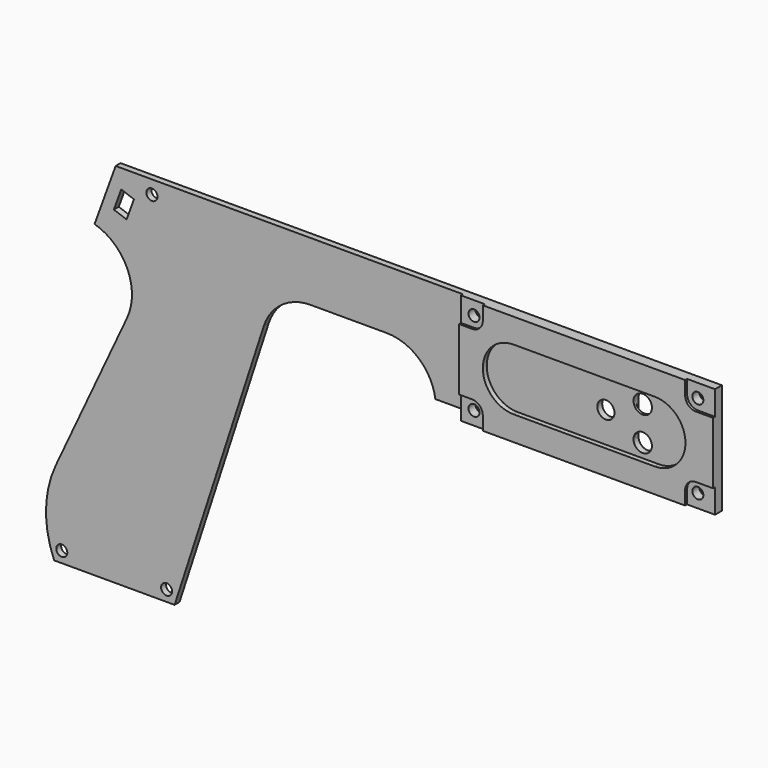
from build123d import *

# Parameters (mm, degrees)
SKETCH085_R           = 1.8
EXTRUDE085_DEPTH      = 0.8
SKETCH083_W           = 82.8
SKETCH083_H           = 36
SKETCH083_R           = 1.8
EXTRUDE083_DEPTH      = 1.6
SKETCH080_R           = 2.25
EXTRUDE081_DEPTH      = 0.6
EXTRUDE081_DEPTH_BACK = 2.4
SKETCH081_R           = 3.4
EXTRUDE080_DEPTH      = 2.4
EXTRUDE079_DEPTH      = 1.2
SKETCH075_R           = 1.8
SKETCH075_R_2         = 2.8
SKETCH075_R_3         = 3
EXTRUDE078_DEPTH      = 2


with BuildPart() as extrude085:
    # Sketch085 → Extrude085 (new body)
    with BuildSketch(Plane.XZ):
        with BuildLine():
            ThreePointArc((-78.51, 31.3), (-76.035126, 32.325126), (-75.01, 34.8))
            Line((-75.01, 34.8), (-75.01, 39.2))
            Line((-82.8, 39.2), (-75.01, 39.2))
            Line((-82.8, 31.3), (-82.8, 39.2))
            Line((-82.8, 31.3), (-78.51, 31.3))
        make_face()
        with Locations((-78.51, 34.8)):
            Circle(SKETCH085_R, mode=Mode.SUBTRACT)
        with BuildLine():
            ThreePointArc((-9.1, 34.8), (-8.074874, 32.325126), (-5.6, 31.3))
            Line((-5.6, 31.3), (0, 31.3))
            Line((0, 39.2), (0, 31.3))
            Line((-9.1, 39.2), (0, 39.2))
            Line((-9.1, 39.2), (-9.1, 34.8))
        make_face()
        with Locations((-5.6, 34.8)):
            Circle(SKETCH085_R, mode=Mode.SUBTRACT)
        with BuildLine():
            ThreePointArc((-75.01, 7.6), (-76.035126, 10.074874), (-78.51, 11.1))
            Line((-82.8, 11.1), (-78.51, 11.1))
            Line((-82.8, 3.2), (-82.8, 11.1))
            Line((-75.01, 3.2), (-82.8, 3.2))
            Line((-75.01, 7.6), (-75.01, 3.2))
        make_face()
        with Locations((-78.51, 7.6)):
            Circle(SKETCH085_R, mode=Mode.SUBTRACT)
        with BuildLine():
            ThreePointArc((-5.6, 11.1), (-8.074874, 10.074874), (-9.1, 7.6))
            Line((-9.1, 7.6), (-9.1, 3.2))
            Line((-9.1, 3.2), (0, 3.2))
            Line((0, 3.2), (0, 11.1))
            Line((-5.6, 11.1), (0, 11.1))
        make_face()
        with Locations((-5.6, 7.6)):
            Circle(SKETCH085_R, mode=Mode.SUBTRACT)
    extrude(amount=EXTRUDE085_DEPTH)


with BuildPart() as extrude085_1:
    # Extrude085 placement: moved
    add(extrude085.part.moved(Location((0, -2.8, 0))))


with BuildPart() as cut048:
    # Sketch083 → Extrude083 (new body)
    with BuildSketch(Plane.XZ):
        with Locations((-41.4, 21.2)):
            Rectangle(SKETCH083_W, SKETCH083_H)
        with Locations((-78.51, 34.8)):
            Circle(SKETCH083_R, mode=Mode.SUBTRACT)
        with Locations((-5.6, 34.8)):
            Circle(SKETCH083_R, mode=Mode.SUBTRACT)
        with Locations((-5.6, 7.6)):
            Circle(SKETCH083_R, mode=Mode.SUBTRACT)
        with Locations((-78.51, 7.6)):
            Circle(SKETCH083_R, mode=Mode.SUBTRACT)
        with BuildLine():
            ThreePointArc((-65, 31.2), (-75, 21.2), (-65, 11.2))
            Line((-65, 11.2), (-19, 11.2))
            ThreePointArc((-19, 11.2), (-9, 21.2), (-19, 31.2))
            Line((-65, 31.2), (-19, 31.2))
        make_face(mode=Mode.SUBTRACT)
    extrude(amount=EXTRUDE083_DEPTH)


with BuildPart() as cut048_1:
    # Extrude083 placement: moved
    add(cut048.part.moved(Location((0, -2, 0))))

    # Cut048: cut Extrude085
    add(extrude085_1.part, mode=Mode.SUBTRACT)


with BuildPart() as extrude081:
    # Sketch080 → Extrude081 (new body, two sides)
    with BuildSketch(Plane.XZ) as extrude081_sk:
        with Locations((-18.6, 12.1)):
            Circle(SKETCH080_R)
        with Locations((-18.6, 30.3)):
            Circle(SKETCH080_R)
        with Locations((-43.2, 30.3)):
            Circle(SKETCH080_R)
        with Locations((-43.2, 12.1)):
            Circle(SKETCH080_R)
    extrude(amount=EXTRUDE081_DEPTH)
    extrude(extrude081_sk.sketch, amount=-EXTRUDE081_DEPTH_BACK)


with BuildPart() as extrude080:
    # Sketch081 → Extrude080 (new body)
    with BuildSketch(Plane.XZ):
        with Locations((-43.2, 30.3)):
            Circle(SKETCH081_R)
        with Locations((-18.6, 30.3)):
            Circle(SKETCH081_R)
        with Locations((-43.2, 12.1)):
            Circle(SKETCH081_R)
        with Locations((-18.6, 12.1)):
            Circle(SKETCH081_R)
    extrude(amount=-EXTRUDE080_DEPTH)


with BuildPart() as obj1:
    # Sketch077 → Extrude079 (new body)
    with BuildSketch(Plane.XZ):
        with BuildLine():
            Line((-27.2, 26.7), (-27.2, 15.7))
            ThreePointArc((-27.2, 15.7), (-24.2, 12.7), (-21.2, 15.7))
            Line((-21.2, 26.700018), (-21.2, 15.7))
            ThreePointArc((-21.2, 26.700018), (-24.200009, 29.7), (-27.2, 26.7))
        make_face()
    extrude(amount=EXTRUDE079_DEPTH)


with BuildPart() as fusion006:
    # Sketch075 → Extrude078 (new body)
    with BuildSketch(Plane.XZ):
        with BuildLine():
            Line((-82.8, 3.2), (0, 3.2))
            Line((0, 3.2), (0, 39.2))
            Line((-195.886839, 39.2), (0, 39.2))
            Line((-202.764796, 20.302968), (-195.886839, 39.2))
            ThreePointArc((-192.175575, -3.18451), (-192.085048, 10.987093), (-202.764796, 20.302968))
            Line((-192.175575, -3.18451), (-215.419579, -53.031439))
            ThreePointArc((-215.419579, -53.031439), (-218.578907, -66.677212), (-215.93199, -80.431568))
            Line((-215.93199, -80.431568), (-176.68528, -80.431568))
            Line((-147.645309, 8.944272), (-176.68528, -80.431568))
            ThreePointArc((-132.428405, 20), (-141.832969, 16.944272), (-147.645309, 8.944272))
            Line((-132.428405, 20), (-107.6, 20))
            ThreePointArc((-91.751972, 6.2), (-97.09286, 16.066483), (-107.6, 20))
            Line((-82.8, 6.2), (-91.751972, 6.2))
            Line((-82.8, 3.2), (-82.8, 6.2))
        make_face()
        with Locations((-213.443268, -76.831568)):
            Circle(SKETCH075_R, mode=Mode.SUBTRACT)
        with Locations((-179.304663, -76.831568)):
            Circle(SKETCH075_R, mode=Mode.SUBTRACT)
        with Locations((-184.079668, 34.8)):
            Circle(SKETCH075_R, mode=Mode.SUBTRACT)
        with Locations((-78.51, 34.8)):
            Circle(SKETCH075_R, mode=Mode.SUBTRACT)
        with Locations((-78.51, 7.6)):
            Circle(SKETCH075_R, mode=Mode.SUBTRACT)
        with Locations((-5.6, 34.8)):
            Circle(SKETCH075_R, mode=Mode.SUBTRACT)
        with Locations((-5.6, 7.6)):
            Circle(SKETCH075_R, mode=Mode.SUBTRACT)
        with Locations((-36.2, 21.2)):
            Circle(SKETCH075_R_2, mode=Mode.SUBTRACT)
        with Locations((-24.2, 26.7)):
            Circle(SKETCH075_R_3, mode=Mode.SUBTRACT)
        with Locations((-24.2, 15.7)):
            Circle(SKETCH075_R_3, mode=Mode.SUBTRACT)
        Polygon((-189.938695, 31.567195), (-192.332836, 24.989347), (-196.467483, 26.494236), (-194.073342, 33.072084), (-193.885404, 33.00368), (-190.126633, 31.635599), align=None, mode=Mode.SUBTRACT)
    extrude(amount=EXTRUDE078_DEPTH)

    # Cut045: cut obj1
    add(obj1.part, mode=Mode.SUBTRACT)

    # Fusion004: union Extrude080
    add(extrude080.part)

    # Cut046: cut Extrude081
    add(extrude081.part, mode=Mode.SUBTRACT)

    # Fusion006: union Cut048
    add(cut048_1.part)


solid = fusion006.part
